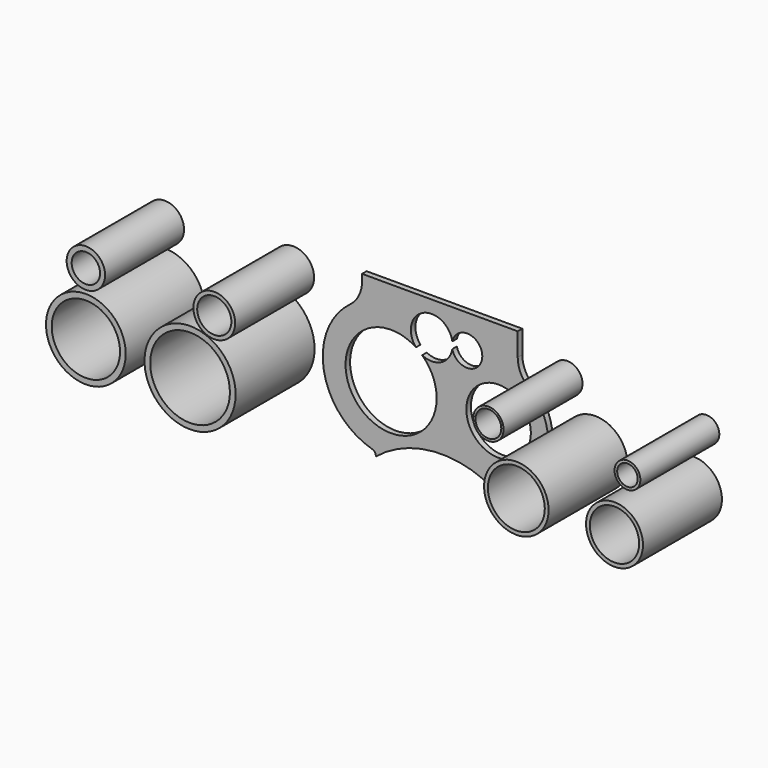
from build123d import *

# Parameters (mm, degrees)
F0_R     = 26.9875
F1_DEPTH = 4.75996
F2_R     = 16.076335
F2_R_2   = 11.87112
F2_R_3   = 33.3375
F2_R_4   = 28.575
F2_R_5   = 38.1
F2_R_6   = 17.4625
F2_R_7   = 14.2875
F2_R_8   = 12.7
F2_R_9   = 10.795
F2_R_10  = 26.9875
F2_R_11  = 23.8125
F2_R_12  = 20.6375
F2_R_13  = 8.5979
F3_DEPTH = 82.55


with BuildPart() as f1:
    # F0 (on Front) → F1 (new body)
    with BuildSketch(Plane.XZ):
        with BuildLine():
            ThreePointArc((-66.675, 65.944559), (-69.34563, 54.607199), (-76.795923, 45.653925))
            ThreePointArc((-76.795923, 45.653925), (-98.664706, -10.120801), (-58.725331, -54.774022))
            ThreePointArc((-58.725331, -54.774022), (-56.031757, -56.361465), (-55.245, -59.387408))
            ThreePointArc((-55.245, -59.387408), (-1.10647, -39.694511), (53.513749, -58.009049))
            Line((53.513749, -58.009049), (53.513749, -54.965318))
            Line((53.513749, -54.965318), (53.513749, -45.991617))
            ThreePointArc((53.513749, -45.991617), (54.824297, -42.128145), (58.214983, -39.859402))
            ThreePointArc((58.214983, -39.859402), (87.920052, -8.347655), (73.12781, 32.353338))
            ThreePointArc((73.12781, 32.353338), (66.033281, 41.205364), (63.5, 52.263085))
            Line((63.5, 52.263085), (63.5, 71.4248))
            Line((63.5, 71.4248), (63.030586, 71.4248))
            Line((63.030586, 71.4248), (-66.675, 71.4248))
            Line((-66.675, 71.4248), (-66.675, 65.944559))
        make_face()
        with Locations((47.498, 0)):
            Circle(F0_R, mode=Mode.SUBTRACT)
        with BuildLine():
            ThreePointArc((-16.3957, 27.82894), (-7.467609, 15.168394), (-4.318, 0))
            ThreePointArc((-4.318, 0), (-75.905409, -18.1715), (-21.651513, 31.943122))
            ThreePointArc((-21.651513, 31.943122), (-15.868683, 59.195336), (8.775158, 46.202823))
            ThreePointArc((8.775158, 46.202823), (22.576891, 56.003712), (33.8582, 43.3832))
            ThreePointArc((33.8582, 43.3832), (22.576891, 30.762688), (8.775158, 40.563577))
            ThreePointArc((8.775158, 40.563577), (-0.574927, 27.801386), (-16.3957, 27.82894))
        make_face(mode=Mode.SUBTRACT)
    extrude(amount=F1_DEPTH)


with BuildPart() as f3:
    # F2 (on Front) → F3 (new body)
    with BuildSketch(Plane.XZ):
        with Locations((-235.502139, 52.386376)):
            Circle(F2_R)
        with Locations((-235.502139, 52.386376)):
            Circle(F2_R_2, mode=Mode.SUBTRACT)
        with Locations((-235.502139, 0)):
            Circle(F2_R_3)
        with Locations((-235.502139, 0)):
            Circle(F2_R_4, mode=Mode.SUBTRACT)
        with Locations((-148.34515, 0)):
            Circle(F2_R_5)
        with Locations((-148.34515, 0)):
            Circle(F2_R_3, mode=Mode.SUBTRACT)
        with Locations((-128.083431, 52.386376)):
            Circle(F2_R_6)
        with Locations((-128.083431, 52.386376)):
            Circle(F2_R_7, mode=Mode.SUBTRACT)
        with Locations((101.192466, 47.221823)):
            Circle(F2_R_8)
        with Locations((101.192466, 47.221823)):
            Circle(F2_R_9, mode=Mode.SUBTRACT)
        with Locations((124.574303, 0)):
            Circle(F2_R_10)
        with Locations((124.574303, 0)):
            Circle(F2_R_11, mode=Mode.SUBTRACT)
        with Locations((206.684202, 0)):
            Circle(F2_R_11)
        with Locations((206.684202, 0)):
            Circle(F2_R_12, mode=Mode.SUBTRACT)
        with Locations((217.517287, 47.221823)):
            Circle(F2_R_9)
        with Locations((217.517287, 47.221823)):
            Circle(F2_R_13, mode=Mode.SUBTRACT)
    extrude(amount=F3_DEPTH)


solid = Compound([f1.part, f3.part])
